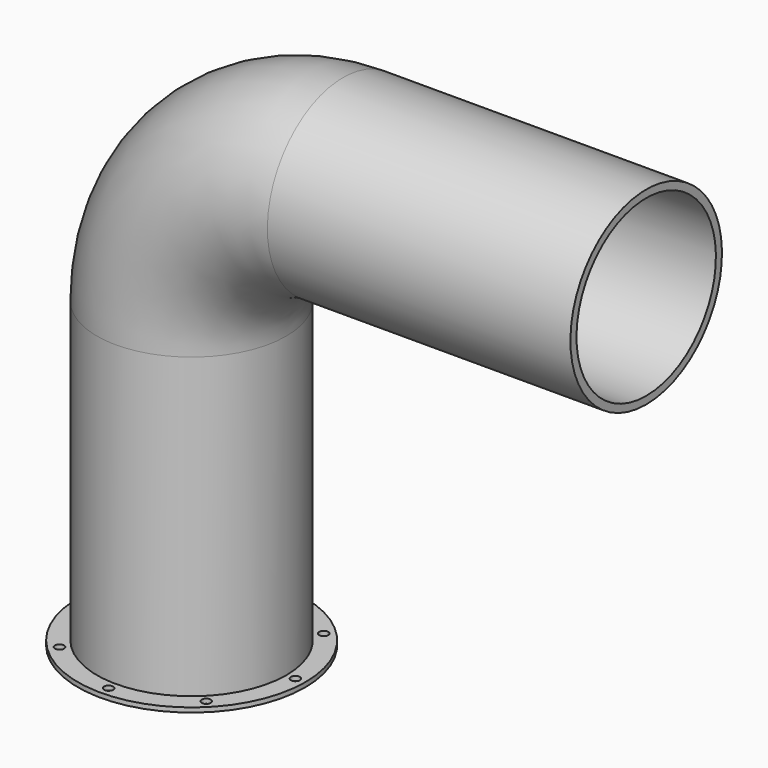
from build123d import *

# Parameters (mm, degrees)
F0_R     = 150
F0_R_2   = 6
F0_R_3   = 125
F1_DEPTH = 6
F3_R     = 125
F3_R_2   = 115


with BuildPart() as f1:
    # F0 (on Top) → F1 (new body)
    with BuildSketch(Plane.XY):
        Circle(F0_R)
        with Locations((-96.869168, -96.869168)):
            Circle(F0_R_2, mode=Mode.SUBTRACT)
        with Locations((0, -136.993691)):
            Circle(F0_R_2, mode=Mode.SUBTRACT)
        with Locations((96.869168, -96.869168)):
            Circle(F0_R_2, mode=Mode.SUBTRACT)
        with Locations((-136.993691, 0)):
            Circle(F0_R_2, mode=Mode.SUBTRACT)
        with Locations((-96.869168, 96.869168)):
            Circle(F0_R_2, mode=Mode.SUBTRACT)
        Circle(F0_R_3, mode=Mode.SUBTRACT)
        with Locations((136.993691, 0)):
            Circle(F0_R_2, mode=Mode.SUBTRACT)
        with Locations((0, 136.993691)):
            Circle(F0_R_2, mode=Mode.SUBTRACT)
        with Locations((96.869168, 96.869168)):
            Circle(F0_R_2, mode=Mode.SUBTRACT)
    extrude(amount=F1_DEPTH)

    # F4: sweep along a path in F2
    with BuildLine(Plane.XZ) as f4_path:
        Line((0, 0), (0, 400))
        ThreePointArc((0, 400), (58.578644, 541.421356), (200, 600))
        Line((200, 600), (600, 600))
    # F3 (on Top) → F4 (sweep)
    with BuildSketch(Plane.XY):
        Circle(F3_R)
        Circle(F3_R_2, mode=Mode.SUBTRACT)
    sweep(path=f4_path.line)


solid = f1.part
